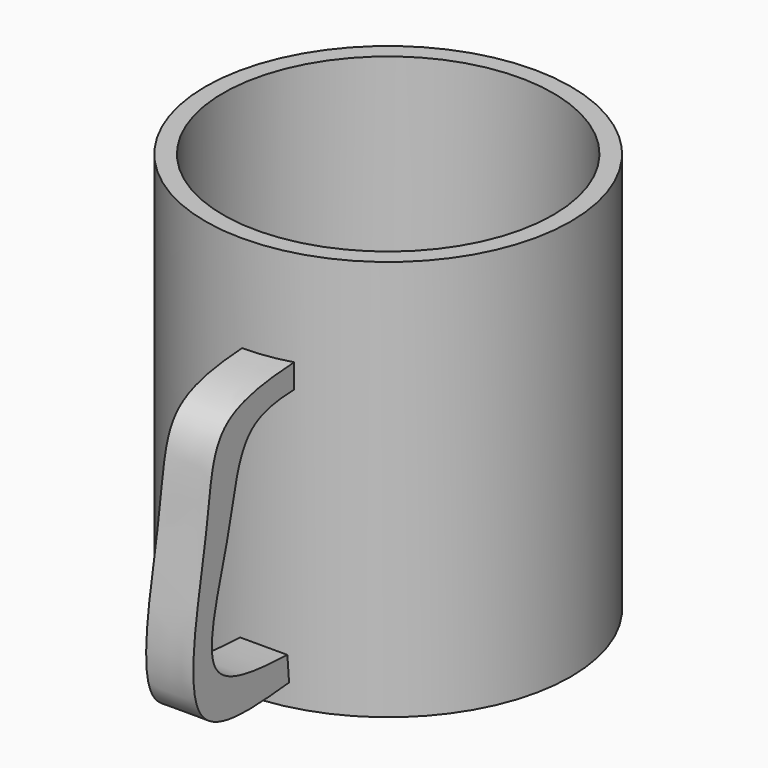
from build123d import *

# Parameters (mm, degrees)
F0_R     = 38.7417924646
F0_R_2   = 35
F1_DEPTH = 85
F2_R     = 37.823926557
F3_DEPTH = 10
F4_DEPTH = 10
F6_DEPTH = 10


with BuildPart() as f1:
    # F0 (on Top) → F1 (new body)
    with BuildSketch(Plane.XY):
        Circle(F0_R)
        Circle(F0_R_2, mode=Mode.SUBTRACT)
    extrude(amount=F1_DEPTH)

    # F2 (on Top) → F3 (join)
    with BuildSketch(Plane.XY):
        Circle(F2_R)
    extrude(amount=F3_DEPTH)


with BuildPart() as f4:
    # F4 (new): a face of the model
    f4_faces = [f1.part.faces().sort_by_distance(p)[0] for p in [
        (0, 0, 10),
    ]]
    extrude(f4_faces, amount=-F4_DEPTH)


with BuildPart() as f1_1:
    add(f1.part)

    # F5 (on Right) → F6 (join)
    with BuildSketch(Plane.YZ):
        with BuildLine():
            Line((-31.3608907163, 59.4299100339), (-31.8346694112, 64.8258551955))
            add(Edge.make_bspline(
                [(-31.8346694112, 64.8258551955), (-41.38433925, 64.4591015217), (-59.4528021533, 63.7651848458), (-59.5290389729, 42.1532722818), (-69.9789196059, 2.3613791422), (-48.586554243, 4.3980298153), (-38.7761965394, 5.332020577)],
                knots=[0, 0, 0, 0, 0.2467021065, 0.4667729811, 0.755466602, 1, 1, 1, 1], degree=3))
            Line((-38.7761965394, 5.332020577), (-39.2265208066, 10.6786340475))
            add(Edge.make_bspline(
                [(-31.3608907163, 59.4299100339), (-38.1323724891, 59.5802666318), (-51.9003981798, 59.8859771945), (-53.7821712318, 39.2212378706), (-64.6205675672, 11.8915510506), (-47.4525440805, 11.0715404476), (-39.2265208066, 10.6786340475)],
                knots=[0, 0, 0, 0, 0.2352618161, 0.4783429738, 0.7500491049, 1, 1, 1, 1], degree=3))
        make_face()
    extrude(amount=F6_DEPTH)


solid = Compound([f4.part, f1_1.part])
